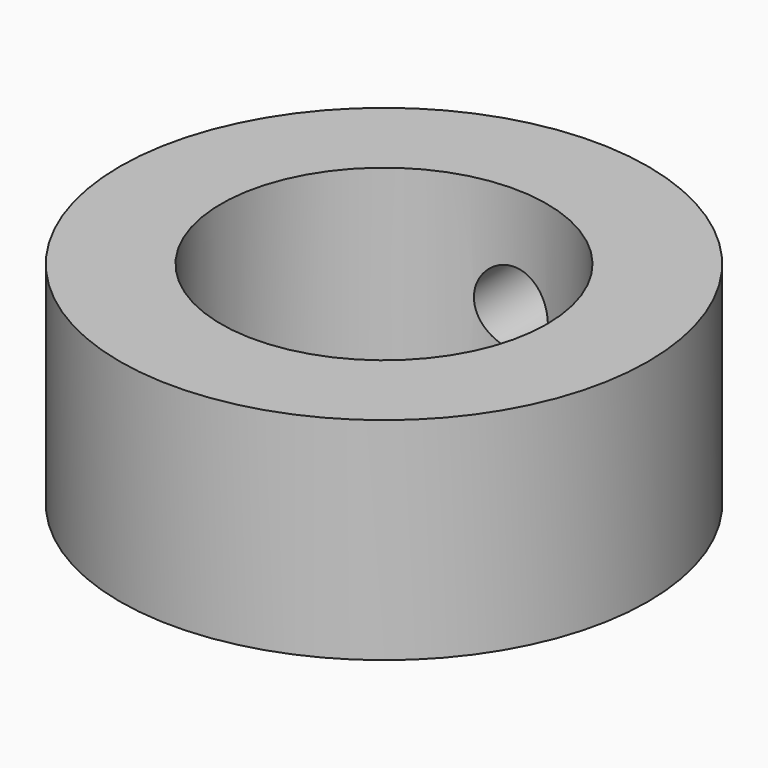
from build123d import *

# Parameters (mm, degrees)
F0_R     = 15
F0_R_2   = 9.25
F1_DEPTH = 12
F3_D     = 4.2
F3_DEPTH = 15.001


with BuildPart() as f1:
    # F0 (on Top) → F1 (new body)
    with BuildSketch(Plane.XY):
        Circle(F0_R)
        Circle(F0_R_2, mode=Mode.SUBTRACT)
    extrude(amount=F1_DEPTH)

    # F3 (through all, one way)
    with BuildSketch(Plane.XZ):
        with Locations((0, 6)):
            Circle(F3_D / 2)
    extrude(amount=-F3_DEPTH, mode=Mode.SUBTRACT)


solid = f1.part
